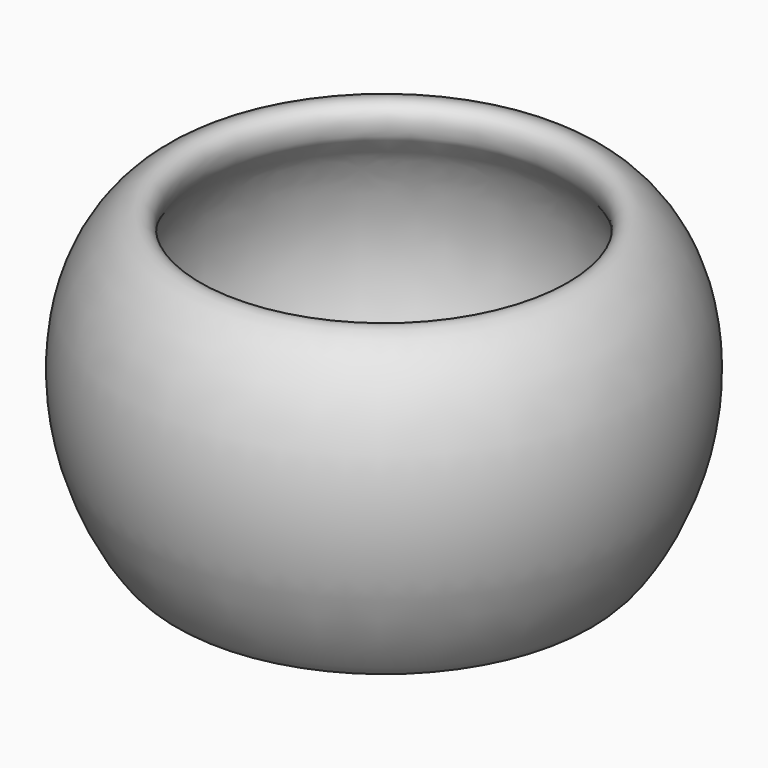
from build123d import *


with BuildPart() as f2:
    # F0 (on Front) → F2 (revolve)
    with BuildSketch(Plane.XZ):
        with BuildLine():
            add(Edge.make_bspline(
                [(27.9272142798, -9.2909755185), (29.8345549553, -6.7927296878), (34.9921550727, 3.2333524322), (34.1034164569, 20.89956359), (26.0624450993, 29.1928112026), (22.7621675124, 27.3996927698), (23.1156821984, 23.8545644337), (25.9905422277, 21.5025376913), (30.3847949104, 8.8654459268), (24.7774273307, -4.7492055555), (21.6255174608, -8.7281773728), (25.338347455, -11.9423413619), (26.9855555278, -10.5243655894), (27.9272142798, -9.2909755185)],
                knots=[0, 0, 0, 0, 0.1259139221, 0.2714867419, 0.3775711032, 0.4305383429, 0.4885789705, 0.5525299151, 0.6743438972, 0.8060089557, 0.875657973, 0.937835989, 1, 1, 1, 1], degree=3))
        make_face()
    revolve(axis=Axis((0, 0, 7.5014866889), (0, 0, 1)))


solid = f2.part
